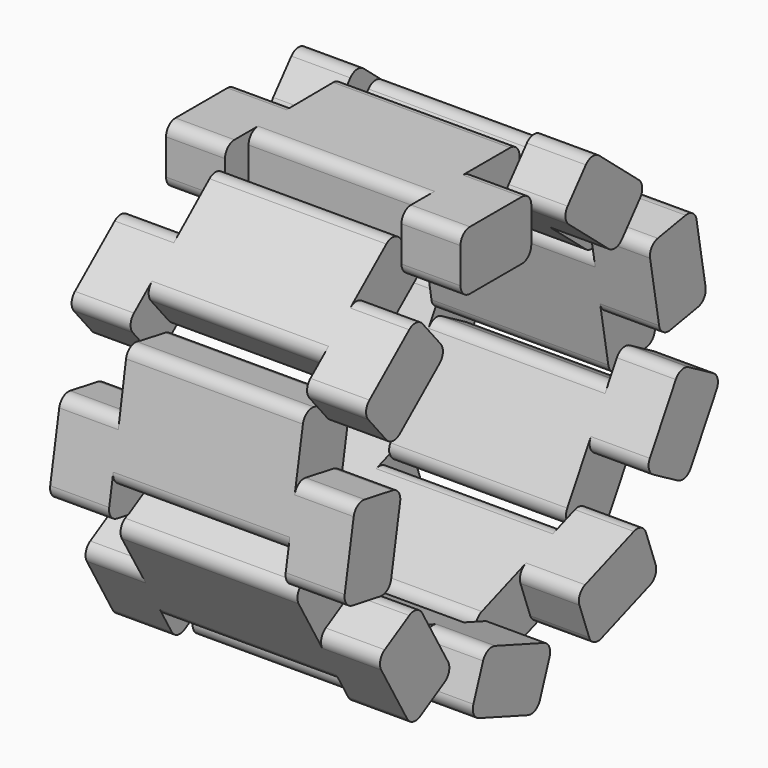
from build123d import *

# Parameters (mm, degrees)
F1_DEPTH = 25.4
F2_R     = 5.08
F4_COUNT = 9


with BuildPart() as f1:
    # F0 (on Top) → F1 (new body)
    with BuildSketch(Plane.XY):
        Polygon((51.7395334214, 25.4), (-24.4604665786, 25.4), (-24.2678166091, 0), (-49.6678166091, 0), (-49.6678166091, -38.1), (-24.2678166091, -38.1), (-24.2678166091, -25.4), (51.7395334214, -25.4), (51.7395334214, -38.1), (77.1395334214, -38.1), (77.1395334214, 0), (51.7395334214, 0), align=None)
    extrude(amount=F1_DEPTH)

    # F2
    f2_edges = [f1.edges().sort_by_distance(p)[0] for p in [
        (13.639533, 25.4, 25.4),
        (13.639533, 25.4, 0),
        (13.735858, -25.4, 0),
        (13.735858, -25.4, 25.4),
        (64.439533, -38.1, 25.4),
        (-36.967817, -38.1, 25.4),
        (-36.967817, -38.1, 0),
        (64.439533, -38.1, 0),
        (64.439533, 0, 0),
        (64.439533, 0, 25.4),
        (-36.967817, 0, 25.4),
        (-36.967817, 0, 0),
    ]]
    fillet(f2_edges, radius=F2_R)


with BuildPart() as f4_1:
    # F4: instance of F1
    add(f1.part.rotate(Axis((0, 0, -70.7712695003), (1, 0, 0)), 1 * 360 / F4_COUNT))


with BuildPart() as f4_2:
    # F4: instance of F1
    add(f1.part.rotate(Axis((0, 0, -70.7712695003), (1, 0, 0)), 2 * 360 / F4_COUNT))


with BuildPart() as f4_3:
    # F4: instance of F1
    add(f1.part.rotate(Axis((0, 0, -70.7712695003), (1, 0, 0)), 3 * 360 / F4_COUNT))


with BuildPart() as f4_4:
    # F4: instance of F1
    add(f1.part.rotate(Axis((0, 0, -70.7712695003), (1, 0, 0)), 4 * 360 / F4_COUNT))


with BuildPart() as f4_5:
    # F4: instance of F1
    add(f1.part.rotate(Axis((0, 0, -70.7712695003), (1, 0, 0)), 5 * 360 / F4_COUNT))


with BuildPart() as f4_6:
    # F4: instance of F1
    add(f1.part.rotate(Axis((0, 0, -70.7712695003), (1, 0, 0)), 6 * 360 / F4_COUNT))


with BuildPart() as f4_7:
    # F4: instance of F1
    add(f1.part.rotate(Axis((0, 0, -70.7712695003), (1, 0, 0)), 7 * 360 / F4_COUNT))


with BuildPart() as f4_8:
    # F4: instance of F1
    add(f1.part.rotate(Axis((0, 0, -70.7712695003), (1, 0, 0)), 8 * 360 / F4_COUNT))


solid = Compound([f1.part, f4_1.part, f4_2.part, f4_3.part, f4_4.part, f4_5.part, f4_6.part, f4_7.part, f4_8.part])
